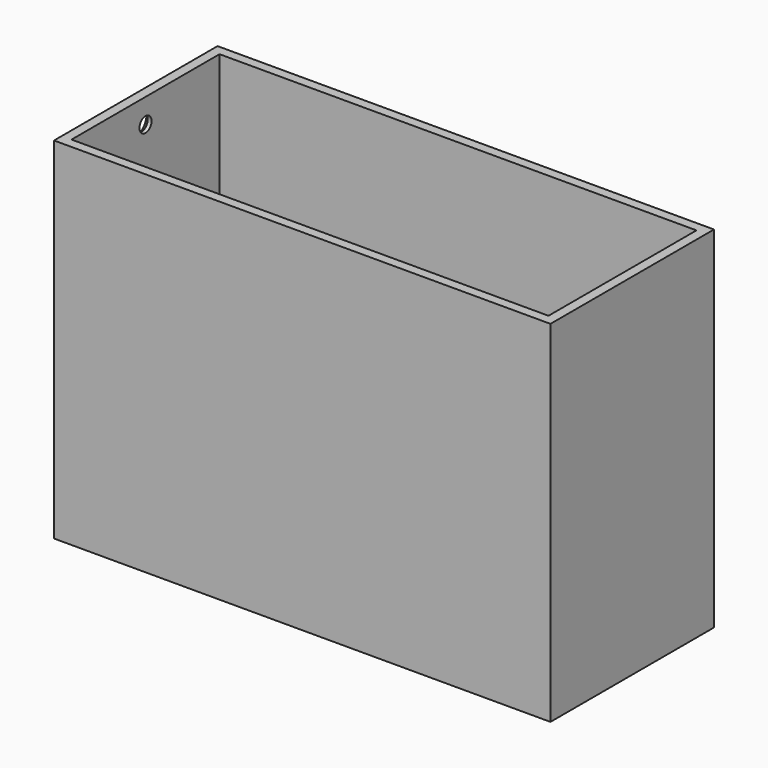
from build123d import *

# Parameters (mm, degrees)
F1_W           = 102
F1_H           = 42
F1_W_2         = 98
F1_H_2         = 38
F2_DEPTH       = 72
F3_R           = 8.1966630734
F4_DEPTH       = 25
F6_D           = 3.1
F6_DEPTH       = 20
F6_CSINK_D     = 5.5
F6_CSINK_ANGLE = 90
F6_TIP         = 0.9313339595
F7_W           = 102
F7_H           = 42
F8_DEPTH       = 2
F10_D          = 4
F10_DEPTH      = 20
F10_TIP        = 1.2017212381


with BuildPart() as f2:
    # F1 (on Top) → F2 (new body)
    with BuildSketch(Plane.XY):
        Rectangle(F1_W, F1_H)
        Rectangle(F1_W_2, F1_H_2, mode=Mode.SUBTRACT)
    extrude(amount=F2_DEPTH)

    # F3 (on face) → F4 (cut)
    with BuildSketch(Plane(origin=(0, 0, 0), x_dir=(1, 0, 0), z_dir=(0, 0, -1))):
        Circle(F3_R)
    extrude(amount=-F4_DEPTH, mode=Mode.SUBTRACT)

    # F6
    with Locations(Plane(origin=(-51, 0, 0), x_dir=(0, -1, 0), z_dir=(-1, 0, 0))):
        with Locations((0, 67)):
            CounterSinkHole(F6_D / 2, F6_CSINK_D / 2, depth=F6_DEPTH, counter_sink_angle=F6_CSINK_ANGLE)
            with Locations((0, 0, -(F6_DEPTH + F6_TIP / 2))):  # 118° drill point
                Cone(0, F6_D / 2, F6_TIP, mode=Mode.SUBTRACT)

    # F7 (on Top) → F8 (join)
    with BuildSketch(Plane.XY):
        Rectangle(F7_W, F7_H)
    extrude(amount=F8_DEPTH)

    # F10
    with Locations(Plane(origin=(0, 0, 0), x_dir=(1, 0, 0), z_dir=(0, 0, -1))):
        with Locations((25.5, 10.5), (-25.5, 10.5)):
            Hole(F10_D / 2, depth=F10_DEPTH)
            with Locations((0, 0, -(F10_DEPTH + F10_TIP / 2))):  # 118° drill point
                Cone(0, F10_D / 2, F10_TIP, mode=Mode.SUBTRACT)


solid = f2.part
